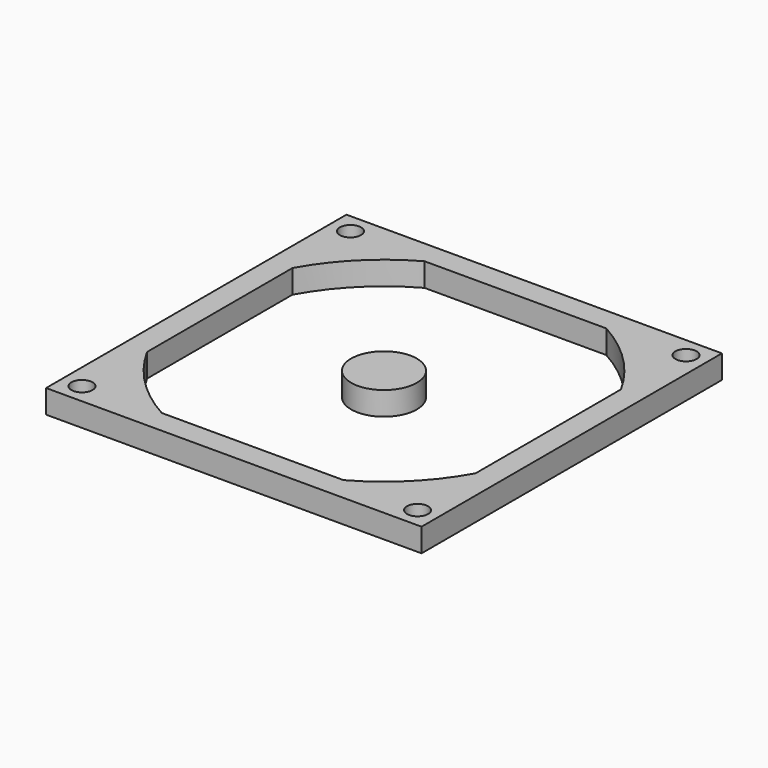
from build123d import *

# Parameters (mm, degrees)
F0_W     = 80
F0_H     = 80
F0_R     = 2.25
F0_R_2   = 7
F1_DEPTH = 5


with BuildPart() as f1:
    # F0 (on Top) → F1 (new body)
    with BuildSketch(Plane.XY):
        Rectangle(F0_W, F0_H)
        with Locations((-35.75, -35.75)):
            Circle(F0_R, mode=Mode.SUBTRACT)
        with Locations((35.75, -35.75)):
            Circle(F0_R, mode=Mode.SUBTRACT)
        with Locations((-35.75, 35.75)):
            Circle(F0_R, mode=Mode.SUBTRACT)
        with BuildLine():
            ThreePointArc((-19.364917, -35), (-28.284271, -28.284271), (-35, -19.364917))
            Line((-35, -19.364917), (-35, 19.364917))
            ThreePointArc((-35, 19.364917), (-28.284271, 28.284271), (-19.364917, 35))
            Line((-19.364917, 35), (19.364917, 35))
            ThreePointArc((19.364917, 35), (28.284271, 28.284271), (35, 19.364917))
            Line((35, 19.364917), (35, -19.364917))
            ThreePointArc((35, -19.364917), (28.284271, -28.284271), (19.364917, -35))
            Line((19.364917, -35), (-19.364917, -35))
        make_face(mode=Mode.SUBTRACT)
        with Locations((35.75, 35.75)):
            Circle(F0_R, mode=Mode.SUBTRACT)
        Circle(F0_R_2)
    extrude(amount=F1_DEPTH)


solid = f1.part
